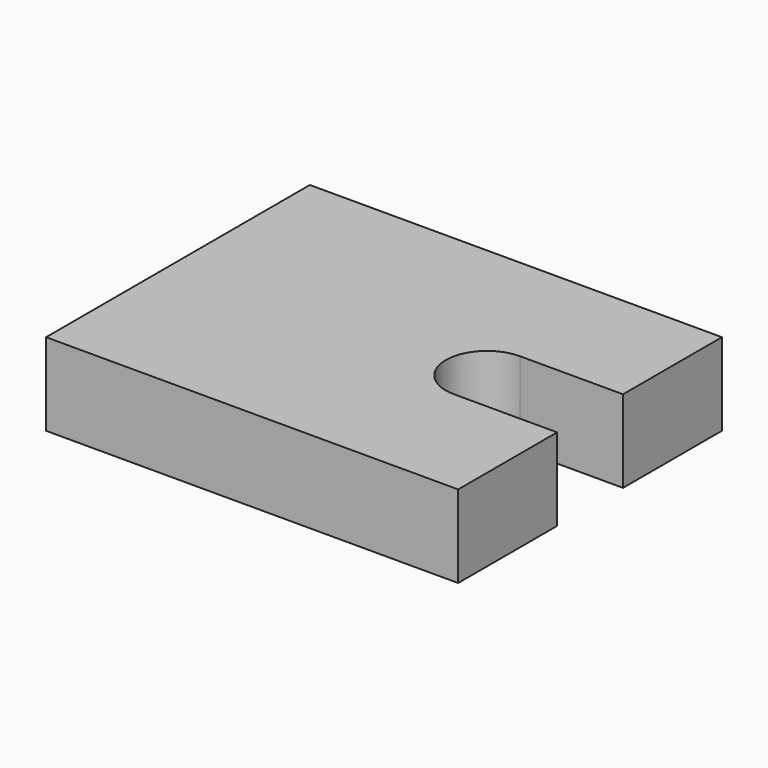
from build123d import *

# Parameters (mm, degrees)
F1_DEPTH = 406.4


with BuildPart() as f1:
    # F0 (on Top) → F1 (new body)
    with BuildSketch(Plane.XY):
        with BuildLine():
            Line((1888.590196, 76.302297), (-143.409804, 76.302297))
            Line((-143.409804, 76.302297), (-143.409804, -1549.297703))
            Line((-143.409804, -1549.297703), (1888.590196, -1549.297703))
            Line((1888.590196, -1549.297703), (1888.590196, -939.697703))
            Line((1888.590196, -939.697703), (1380.590196, -939.697703))
            ThreePointArc((1380.590196, -939.697703), (1177.390196, -736.497703), (1380.590196, -533.297703))
            Line((1380.590196, -533.297703), (1888.590196, -533.297703))
            Line((1888.590196, -533.297703), (1888.590196, 76.302297))
        make_face()
    extrude(amount=F1_DEPTH)


solid = f1.part
